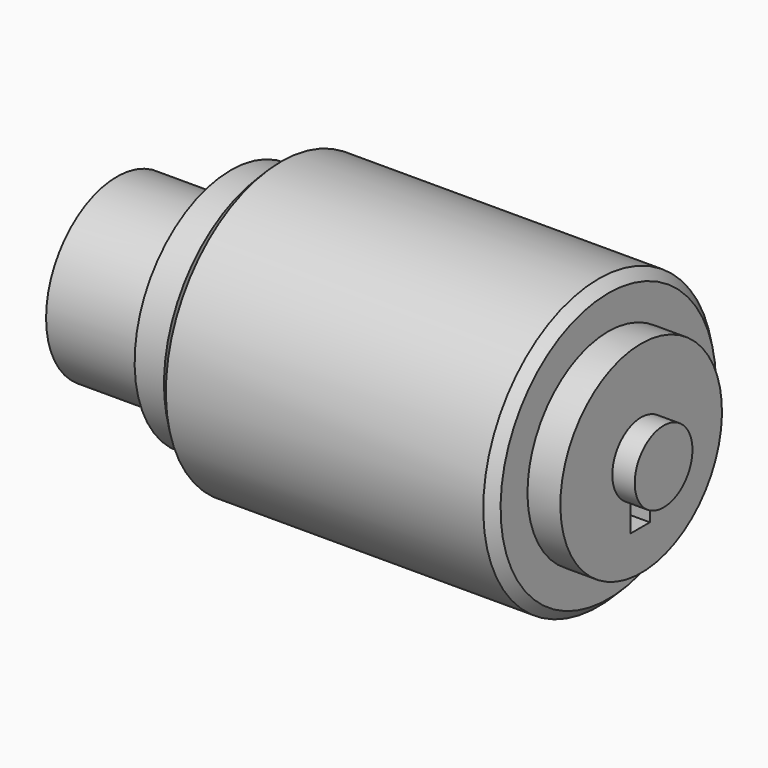
from build123d import *

# Parameters (mm, degrees)
F3_START = -35.13478
F3_DEPTH = 29.12792
F4_SIZE  = 10.16
F5_R     = 93.5075941329
F6_DEPTH = 127


with BuildPart() as f1:
    # F0 (on Front) → F1 (revolve)
    with BuildSketch(Plane.XZ):
        Polygon((0, 127), (0, 0), (457.2, 0), (457.2, 38.1), (433.5165438938, 38.1), (433.5165438938, 106.68), (398.78, 106.68), (398.78, 152.4), (43.18, 152.4), (43.18, 127), align=None)
    revolve(axis=Axis((228.6, 0, 0), (1, 0, 0)))

    # F2 (on Top) → F3 (cut)
    with BuildSketch(Plane.XY.offset(F3_START)):
        with BuildLine():
            Line((435.6053211212, 11.4893475547), (390.5868865967, 11.4893475547))
            ThreePointArc((390.5868865967, 11.4893475547), (377.9254574746, -1.1720815673), (390.5868865967, -13.8335106894))
            Line((390.5868865967, -13.8335106894), (435.6053211212, -13.8335106894))
            ThreePointArc((435.6053211212, -13.8335106894), (448.2667502433, -1.1720815673), (435.6053211212, 11.4893475547))
        make_face()
    extrude(amount=-F3_DEPTH, mode=Mode.SUBTRACT)

    # F4
    f4_edges = [f1.edges().sort_by_distance(p)[0] for p in [
        (43.18, 0, -152.4),
        (398.78, 0, -152.4),
    ]]
    chamfer(f4_edges, length=F4_SIZE)

    # F5 (on face) → F6 (join)
    with BuildSketch(Plane(origin=(0, 0, 0), x_dir=(0, -1, 0), z_dir=(-1, 0, 0))):
        with Locations((-8.3505315706, -17.3037741333)):
            Circle(F5_R)
    extrude(amount=F6_DEPTH)


solid = f1.part
